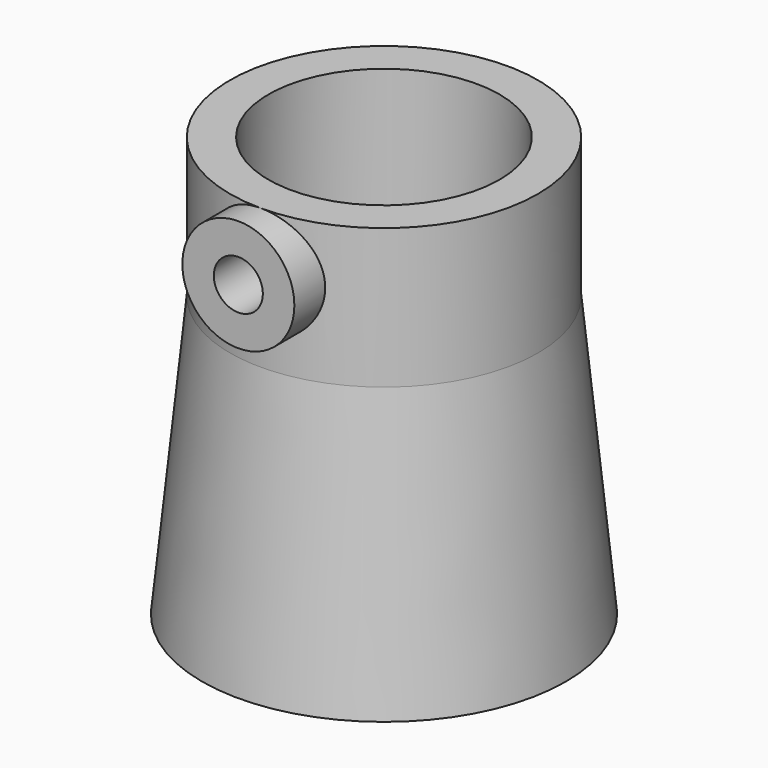
from build123d import *

# Parameters (mm, degrees)
CYLINDER035_R     = 11
CYLINDER035_DEPTH = 10
CYLINDER036_R     = 8.25
CYLINDER036_DEPTH = 10
CYLINDER058_R     = 4
CYLINDER058_DEPTH = 4
CYLINDER059_R     = 1.75
CYLINDER059_DEPTH = 6


with BuildPart() as part:
    # Cone001 → Cone001 (revolve)
    with BuildSketch(Plane.XZ):
        Polygon((0, 0), (13, 0), (11, 20), (0, 20), align=None)
    revolve(axis=Axis((0, 0, 0), (0, 0, 1)))

    # Cone002 → Cone002 (revolve, cut)
    with BuildSketch(Plane.XZ):
        Polygon((0, 0), (11.25, 0), (8.25, 20), (0, 20), align=None)
    revolve(axis=Axis((0, 0, 0), (0, 0, 1)), mode=Mode.SUBTRACT)

    # Cylinder035 → Cylinder035 (join)
    with BuildSketch(Plane.XY.offset(20)):
        Circle(CYLINDER035_R)
    extrude(amount=CYLINDER035_DEPTH)

    # Cylinder036 → Cylinder036 (cut)
    with BuildSketch(Plane.XY.offset(20)):
        Circle(CYLINDER036_R)
    extrude(amount=CYLINDER036_DEPTH, mode=Mode.SUBTRACT)

    # Cylinder058 → Cylinder058 (join)
    with BuildSketch(Plane(origin=(0, -9, 26), x_dir=(1, 0, 0), z_dir=(0, -1, 0))):
        Circle(CYLINDER058_R)
    extrude(amount=CYLINDER058_DEPTH)

    # Cylinder059 → Cylinder059 (cut)
    with BuildSketch(Plane(origin=(0, -7, 26), x_dir=(1, 0, 0), z_dir=(0, -1, 0))):
        Circle(CYLINDER059_R)
    extrude(amount=CYLINDER059_DEPTH, mode=Mode.SUBTRACT)


solid = part.part
